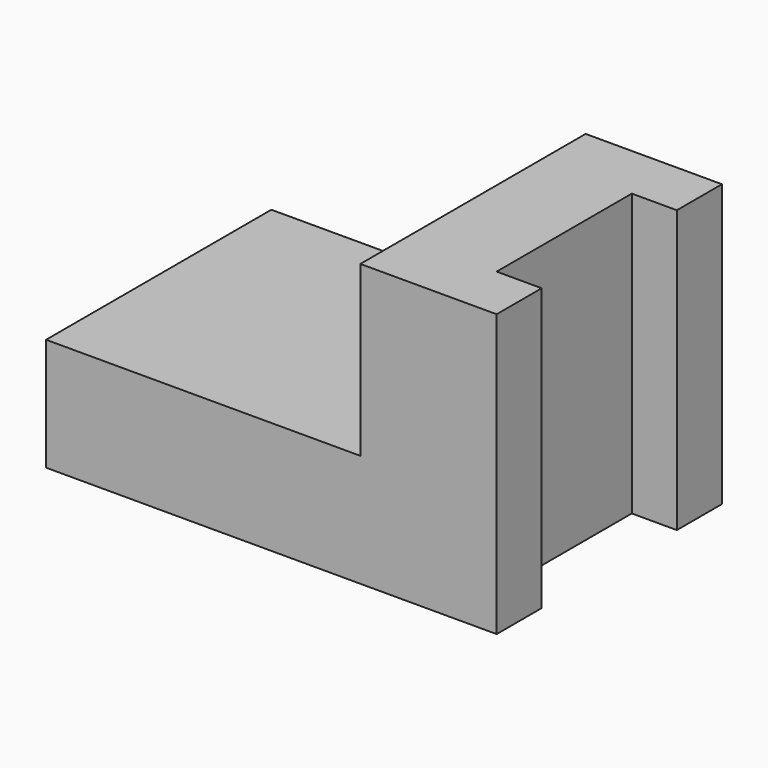
from build123d import *

# Parameters (mm, degrees)
F0_W     = 55.8011086538
F0_H     = 50
F1_DEPTH = 20
F2_DEPTH = 50


with BuildPart() as f1:
    # F0 (on Top) → F1 (new body)
    with BuildSketch(Plane.XY):
        with Locations((27.9005543269, 25)):
            Rectangle(F0_W, F0_H)
    extrude(amount=F1_DEPTH)

    # F0 (on Top) → F2 (join)
    with BuildSketch(Plane.XY):
        Polygon((55.8011086538, 50), (55.8011086538, 0), (80, 0), (80, 10), (72, 10), (72, 40), (80, 40), (80, 50), align=None)
    extrude(amount=F2_DEPTH)


solid = f1.part
